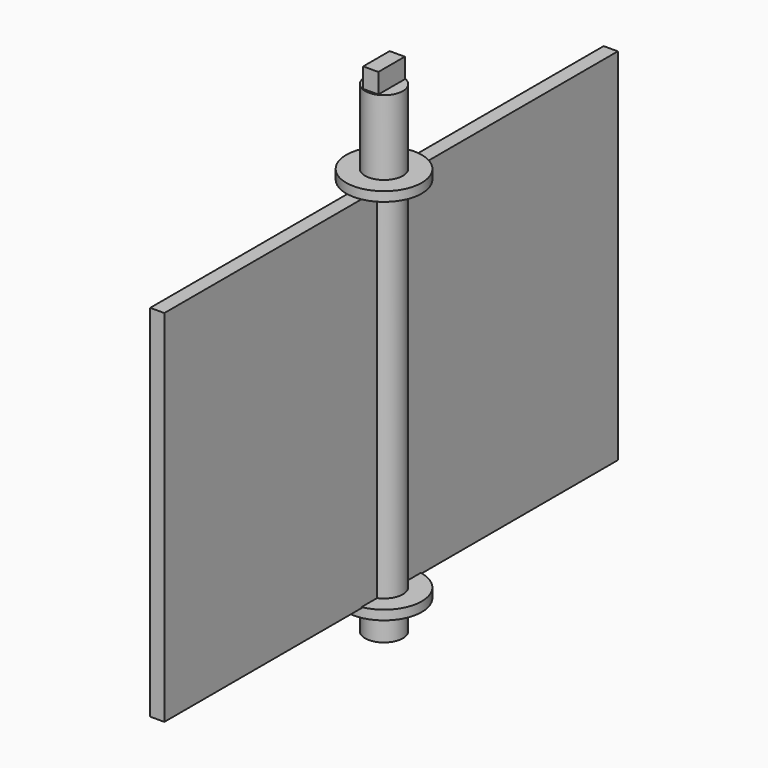
from build123d import *

# Parameters (mm, degrees)
CYLINDER_R        = 4
CYLINDER_DEPTH    = 102
BOX_W             = 3.2
BOX_H             = 7
BOX_DEPTH         = 12
BOX001_W          = 3
BOX001_H          = 120
BOX001_DEPTH      = 76.2
CYLINDER001_R     = 8
CYLINDER001_DEPTH = 2
CYLINDER002_R     = 8
CYLINDER002_DEPTH = 2


with BuildPart() as cylinder:
    # Cylinder → Cylinder (new body)
    with BuildSketch(Plane.XY.offset(-84.2)):
        Circle(CYLINDER_R)
    extrude(amount=CYLINDER_DEPTH)


with BuildPart() as cube:
    # Box → Box (new body)
    with BuildSketch(Plane(origin=(-1.6, -3.5, 10), x_dir=(1, 0, 0), z_dir=(0, 0, 1))):
        with Locations((1.6, 3.5)):
            Rectangle(BOX_W, BOX_H)
    extrude(amount=BOX_DEPTH)


with BuildPart() as cube001:
    # Box001 → Box001 (new body)
    with BuildSketch(Plane(origin=(-1.5, -60, -76.2), x_dir=(1, 0, 0), z_dir=(0, 0, 1))):
        with Locations((1.5, 60)):
            Rectangle(BOX001_W, BOX001_H)
    extrude(amount=BOX001_DEPTH)


with BuildPart() as cylinder001:
    # Cylinder001 → Cylinder001 (new body)
    with BuildSketch(Plane.XY):
        Circle(CYLINDER001_R)
    extrude(amount=CYLINDER001_DEPTH)


with BuildPart() as cylinder002:
    # Cylinder002 → Cylinder002 (new body)
    with BuildSketch(Plane.XY.offset(-78)):
        Circle(CYLINDER002_R)
    extrude(amount=CYLINDER002_DEPTH)


solid = Compound([cylinder.part, cube.part, cube001.part, cylinder001.part, cylinder002.part])
